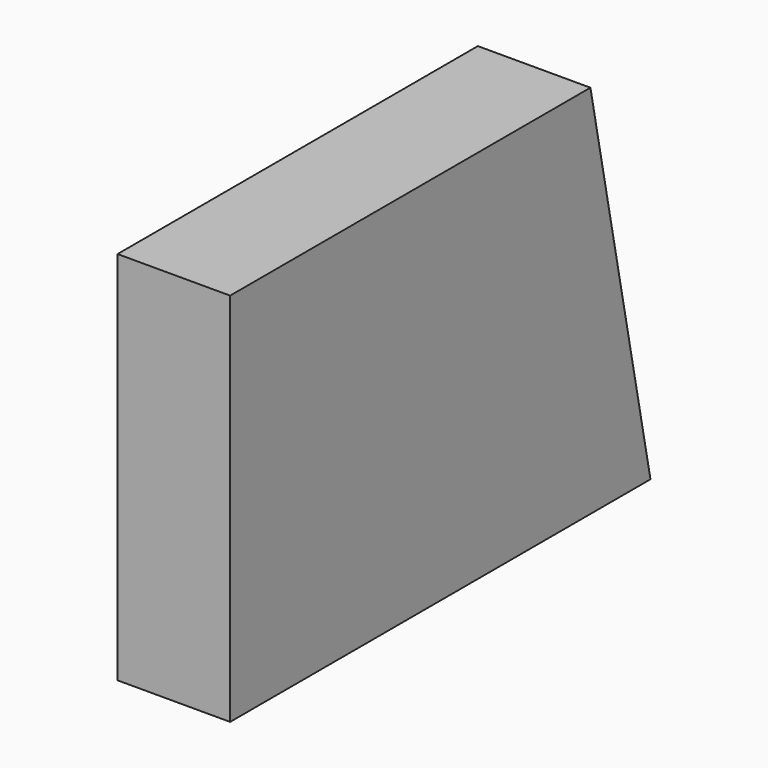
from build123d import *

# Parameters (mm, degrees)
F0_W     = 210
F0_H     = 150
F1_DEPTH = 45
F3_DEPTH = 83.7


with BuildPart() as f1:
    # F0 (on Right) → F1 (new body)
    with BuildSketch(Plane.YZ):
        Rectangle(F0_W, F0_H)
    extrude(amount=F1_DEPTH)

    # F2 (on face) → F3 (cut)
    with BuildSketch(Plane(origin=(0, 0, 0), x_dir=(0, -1, 0), z_dir=(-1, 0, 0))):
        Polygon((-105, -75), (-75, 75), (-105, 75), align=None)
    extrude(amount=-F3_DEPTH, mode=Mode.SUBTRACT)


solid = f1.part
